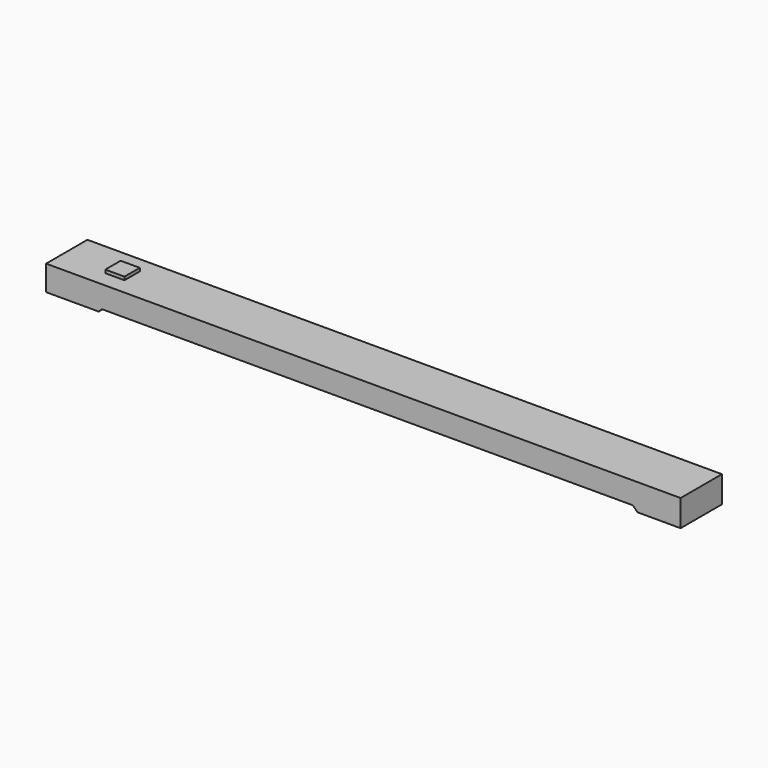
from build123d import *

# Parameters (mm, degrees)
SKETCH027_W      = 300
SKETCH027_H      = 50
EXTRUDE025_DEPTH = 150
EXTRUDE012_DEPTH = 405


with BuildPart() as extrude025:
    # Sketch027 → Extrude025 (new body, symmetric)
    with BuildSketch(Plane.XZ):
        with Locations((350, 330)):
            Rectangle(SKETCH027_W, SKETCH027_H)
    extrude(amount=EXTRUDE025_DEPTH, both=True)


with BuildPart() as fusion014:
    # Sketch020 → Extrude012 (new body, symmetric)
    with BuildSketch(Plane.XZ):
        Polygon((-525, -89), (-525, 305), (9425, 305), (9425, -112), (8750, -112), (8677, -39), (349.996538, -39), (299.996538, -89), align=None)
    extrude(amount=EXTRUDE012_DEPTH, both=True)

    # Fusion014: union Extrude025
    add(extrude025.part)


solid = fusion014.part
